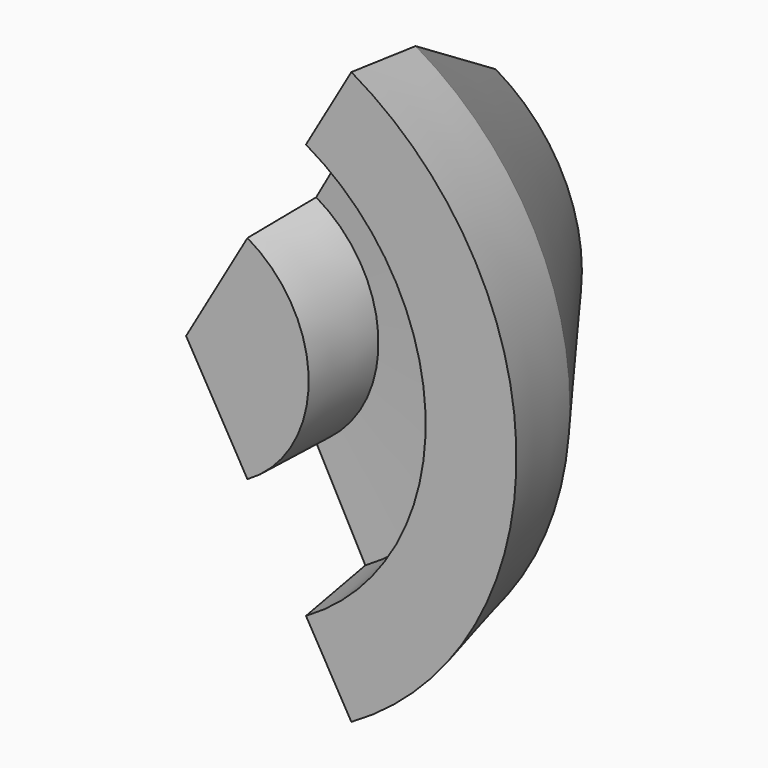
from build123d import *

# Parameters (mm, degrees)
F1_ANGLE_BACK = 59.9796203852
F1_ANGLE      = 119.9592407703


with BuildPart() as f1:
    # F0 (on Top) → F1 (revolve)
    with BuildSketch(Plane.XY, mode=Mode.PRIVATE) as f1_sk:
        Polygon((0, 183.6575716734), (0, 0), (77.6938870549, 0), (78.9715871215, 53.645722568), (144.7227597237, 51.4108687639), (151.7917811871, 0), (209.2998325825, 0), (195.5198347569, 59.4546198845), (109.4474121928, 176.6495704651), align=None)
    revolve(f1_sk.sketch.rotate(Axis((0, 91.8287858367, 0), (0, 1, 0)), -F1_ANGLE_BACK), axis=Axis((0, 91.8287858367, 0), (0, 1, 0)), revolution_arc=F1_ANGLE)


solid = f1.part
